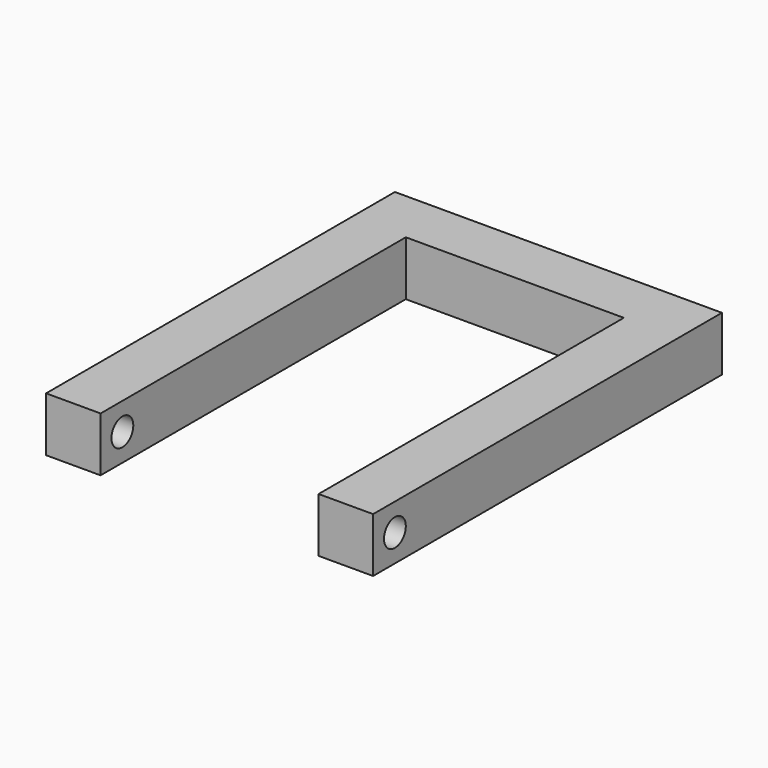
from build123d import *

# Parameters (mm, degrees)
F1_DEPTH = 10
F2_R     = 5
F3_DEPTH = 60


with BuildPart() as f1:
    # F0 (on Top) → F1 (new body, symmetric)
    with BuildSketch(Plane.XY):
        Polygon((40, -80), (60, -80), (60, 80), (-60, 80), (-60, -80), (-40, -80), (-40, -60), (-40, 60), (40, 60), (40, -60), align=None)
    extrude(amount=F1_DEPTH, both=True)

    # F2 (on Right) → F3 (cut, symmetric)
    with BuildSketch(Plane.YZ):
        with Locations((-70, 0)):
            Circle(F2_R)
    extrude(amount=F3_DEPTH, both=True, mode=Mode.SUBTRACT)


solid = f1.part
